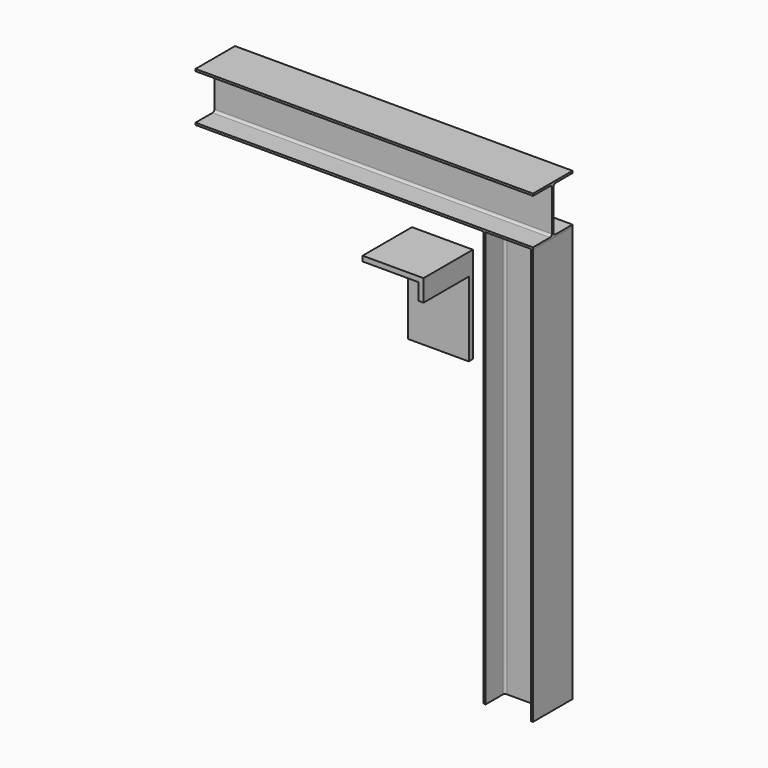
from build123d import *

# Parameters (mm, degrees)
F1_DEPTH      = 431.8
F1_DEPTH_BACK = 609.6
F3_DEPTH      = 203.2
F3_DEPTH_BACK = 1079.5
F4_W          = 187.96
F4_H          = 15.875
F5_DEPTH      = 76.2
F5_DEPTH_BACK = 114.3
F6_W          = 187.96
F6_H          = 15.875
F7_DEPTH      = 281.305
F8_W          = 15.875
F8_H          = 50.8
F9_DEPTH      = 76.2
F9_DEPTH_BACK = 98.425


with BuildPart() as f1:
    # F0 (on Right) → F1 (new body, two sides)
    with BuildSketch(Plane.YZ) as f1_sk:
        with BuildLine():
            Line((76.199248, 355.485669), (-76.200752, 355.485669))
            Line((-76.200752, 355.485669), (-76.200752, 349.135669))
            Line((-76.200752, 349.135669), (-10.175752, 349.135669))
            ThreePointArc((-10.175752, 349.135669), (-5.226005, 347.085417), (-3.175752, 342.135669))
            Line((-3.175752, 342.135669), (-3.175752, 216.435669))
            ThreePointArc((-3.175752, 216.435669), (-5.226005, 211.485922), (-10.175752, 209.435669))
            Line((-10.175752, 209.435669), (-76.200752, 209.435669))
            Line((-76.200752, 209.435669), (-76.200752, 203.085669))
            Line((-76.200752, 203.085669), (76.199248, 203.085669))
            Line((76.199248, 203.085669), (76.199248, 209.435669))
            Line((76.199248, 209.435669), (10.174248, 209.435669))
            ThreePointArc((10.174248, 209.435669), (5.2245, 211.485922), (3.174248, 216.435669))
            Line((3.174248, 216.435669), (3.174248, 342.135669))
            ThreePointArc((3.174248, 342.135669), (5.2245, 347.085417), (10.174248, 349.135669))
            Line((10.174248, 349.135669), (76.199248, 349.135669))
            Line((76.199248, 349.135669), (76.199248, 355.485669))
        make_face()
    extrude(amount=F1_DEPTH)
    extrude(f1_sk.sketch, amount=-F1_DEPTH_BACK)


with BuildPart() as f3:
    # F2 (on Top) → F3 (new body, two sides)
    with BuildSketch(Plane.XY) as f3_sk:
        with BuildLine():
            Line((431.8, -76.200752), (431.8, 76.199248))
            Line((431.8, 76.199248), (425.45, 76.199248))
            Line((425.45, 76.199248), (425.45, 10.174248))
            ThreePointArc((425.45, 10.174248), (423.399747, 5.2245), (418.45, 3.174248))
            Line((418.45, 3.174248), (292.75, 3.174248))
            ThreePointArc((292.75, 3.174248), (287.800253, 5.2245), (285.75, 10.174248))
            Line((285.75, 10.174248), (285.75, 76.199248))
            Line((285.75, 76.199248), (279.4, 76.199248))
            Line((279.4, 76.199248), (279.4, -76.200752))
            Line((279.4, -76.200752), (285.75, -76.200752))
            Line((285.75, -76.200752), (285.75, -10.175752))
            ThreePointArc((285.75, -10.175752), (287.800253, -5.226005), (292.75, -3.175752))
            Line((292.75, -3.175752), (418.45, -3.175752))
            ThreePointArc((418.45, -3.175752), (423.399747, -5.226005), (425.45, -10.175752))
            Line((425.45, -10.175752), (425.45, -76.200752))
            Line((425.45, -76.200752), (431.8, -76.200752))
        make_face()
    extrude(amount=F3_DEPTH)
    extrude(f3_sk.sketch, amount=-F3_DEPTH_BACK)


with BuildPart() as f5:
    # F4 (on Front) → F5 (new body, two sides)
    with BuildSketch(Plane.XZ) as f5_sk:
        with Locations((0, 7.9375)):
            Rectangle(F4_W, F4_H)
    extrude(amount=F5_DEPTH)
    extrude(f5_sk.sketch, amount=-F5_DEPTH_BACK)

    # F6 (on Top) → F7 (join)
    with BuildSketch(Plane.XY):
        with Locations((0, 106.3625)):
            Rectangle(F6_W, F6_H)
    extrude(amount=-F7_DEPTH)

    # F8 (on Front) → F9 (join, two sides)
    with BuildSketch(Plane.XZ) as f9_sk:
        with Locations((86.0425, -25.4)):
            Rectangle(F8_W, F8_H)
    extrude(amount=F9_DEPTH)
    extrude(f9_sk.sketch, amount=-F9_DEPTH_BACK)


solid = Compound([f1.part, f3.part, f5.part])
